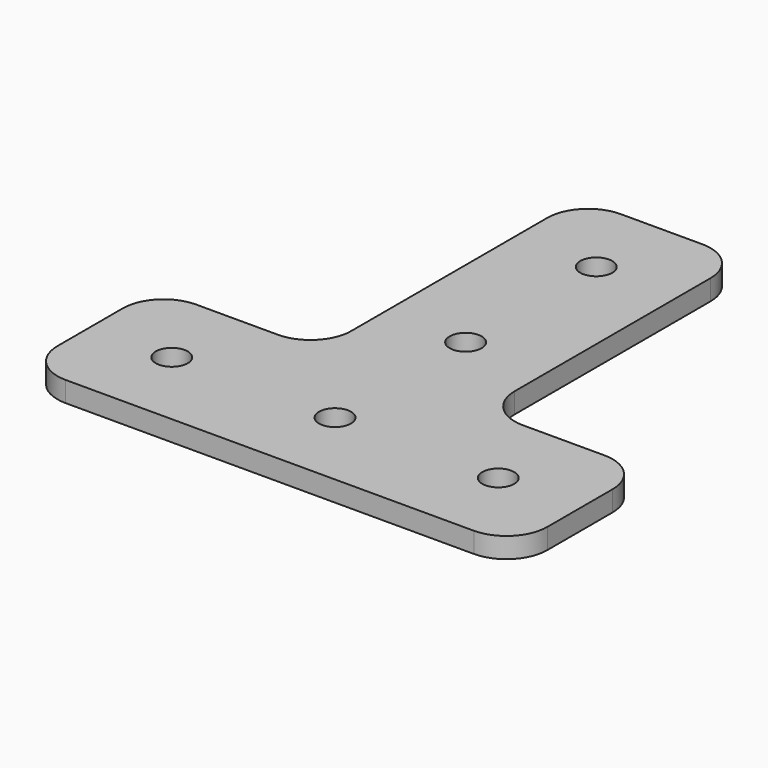
from build123d import *

# Parameters (mm, degrees)
F0_R     = 2.4892
F1_DEPTH = 1.5875
F2_R     = 6.35


with BuildPart() as f1:
    # F0 (on Top) → F1 (new body, symmetric)
    with BuildSketch(Plane.XY):
        Polygon((-38.1, 12.7), (-38.1, -12.7), (38.1, -12.7), (38.1, 12.7), (12.7, 12.7), (12.7, 63.5), (-12.7, 63.5), (-12.7, 12.7), align=None)
        with Locations((-25.4, 0)):
            Circle(F0_R, mode=Mode.SUBTRACT)
        Circle(F0_R, mode=Mode.SUBTRACT)
        with Locations((25.4, 0)):
            Circle(F0_R, mode=Mode.SUBTRACT)
        with Locations((0, 25.4)):
            Circle(F0_R, mode=Mode.SUBTRACT)
        with Locations((0, 50.8)):
            Circle(F0_R, mode=Mode.SUBTRACT)
    extrude(amount=F1_DEPTH, both=True)

    # F2
    f2_edges = [f1.edges().sort_by_distance(p)[0] for p in [
        (-12.7, 12.7, 0),
        (-12.7, 63.5, 0),
        (12.7, 63.5, 0),
        (12.7, 12.7, 0),
        (38.1, 12.7, 0),
        (38.1, -12.7, 0),
        (-38.1, -12.7, 0),
        (-38.1, 12.7, 0),
    ]]
    fillet(f2_edges, radius=F2_R)


solid = f1.part
